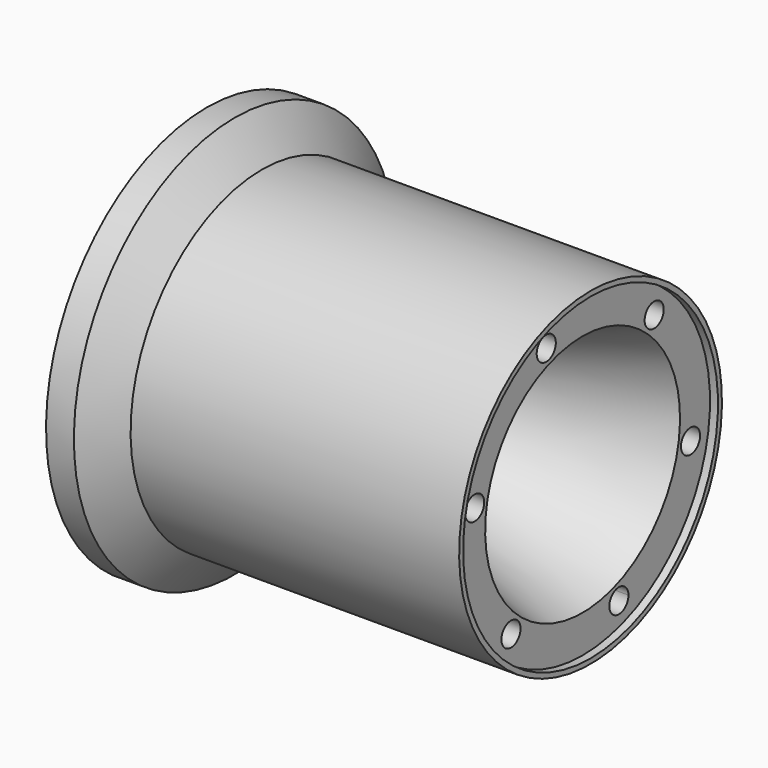
from build123d import *

# Parameters (mm, degrees)
F3_R     = 6
F4_DEPTH = 25


with BuildPart() as f1:
    # F0 (on Front) → F1 (revolve)
    with BuildSketch(Plane.XZ):
        Polygon((-80.545663, 183.5), (-80.545663, 124), (-77.545663, 124), (-77.545663, 114.5), (-15.382721, 102.5), (108.119988, 143.666695), (108.119988, 162.5), (112.119988, 162.5), (112.119988, 165), (-37.880012, 165), (-52.880012, 165), (-66.545663, 183.5), align=None)
    revolve(axis=Axis((211.105403, 0, 82.5), (1, 0, 0)))

    # F3 (on face) → F4 (cut)
    with BuildSketch(Plane.YZ.offset(108.119988)):
        with Locations((-22.803705, 147.569913)):
            Circle(F3_R)
        with Locations((-67.75405, 95.286369)):
            Circle(F3_R)
        with Locations((-44.950345, 30.216456)):
            Circle(F3_R)
        with BuildLine():
            ThreePointArc((17.060371, 15.693966), (23.681201, 11.494601), (28.803705, 17.430087))
            ThreePointArc((28.803705, 17.430087), (21.926209, 23.365574), (17.060371, 15.693966))
        make_face()
        with Locations((67.75405, 69.713631)):
            Circle(F3_R)
        with Locations((44.950345, 134.783544)):
            Circle(F3_R)
    extrude(amount=-F4_DEPTH, mode=Mode.SUBTRACT)


solid = f1.part
